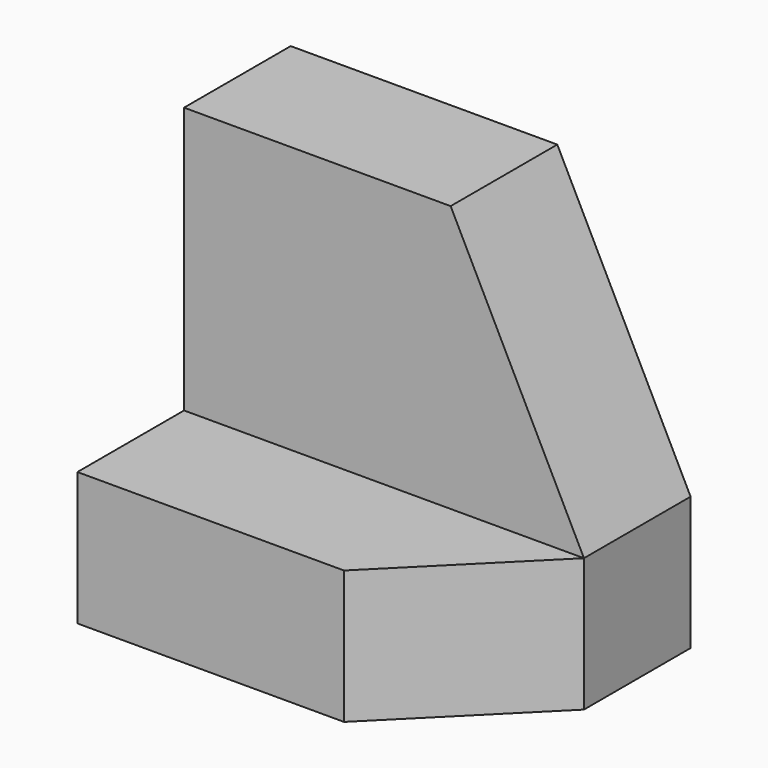
from build123d import *

# Parameters (mm, degrees)
F1_DEPTH = 12.7
F2_W     = 38.1
F2_H     = 12.7
F3_DEPTH = 12.7
F5_DEPTH = 12.701


with BuildPart() as f1:
    # F0 (on Front) → F1 (new body)
    with BuildSketch(Plane.XZ):
        Polygon((-39.638999, 46.242043), (-65.038999, 46.242043), (-65.038999, 8.142043), (-26.938999, 8.142043), (-26.938999, 20.842043), align=None)
    extrude(amount=F1_DEPTH)

    # F2 (on face) → F3 (join)
    with BuildSketch(Plane.XZ.offset(12.7)):
        with Locations((-45.988999, 14.492043)):
            Rectangle(F2_W, F2_H)
    extrude(amount=F3_DEPTH)

    # F4 (on face) → F5 (cut, through all)
    with BuildSketch(Plane.XY.offset(20.842043)):
        Polygon((-26.938999, -25.4), (-26.938999, -12.7), (-39.638999, -25.4), align=None)
    extrude(amount=-F5_DEPTH, mode=Mode.SUBTRACT)


solid = f1.part
